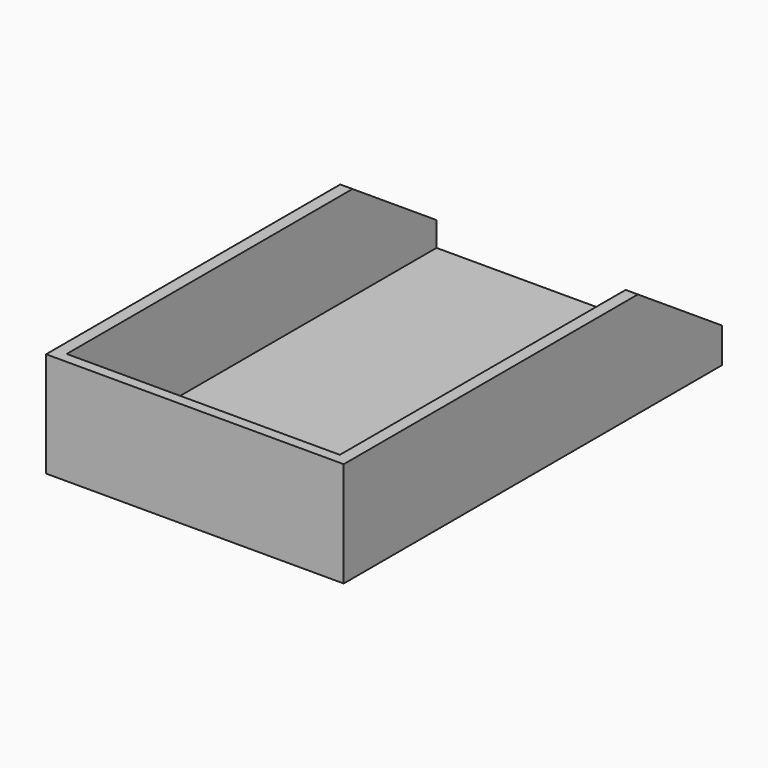
from build123d import *

# Parameters (mm, degrees)
PAD_DEPTH    = 42.5
SKETCH001_W  = 150
SKETCH001_H  = 50
POCKET_DEPTH = 39


with BuildPart() as part:
    # Sketch → Pad (new body, symmetric)
    with BuildSketch(Plane.YZ):
        Polygon((105, 30), (135, 10), (135, 0), (0, 0), (0, 30), align=None)
    extrude(amount=PAD_DEPTH, both=True)

    # Sketch001 → Pocket (cut, symmetric)
    with BuildSketch(Plane.YZ):
        with Locations((78, 28)):
            Rectangle(SKETCH001_W, SKETCH001_H)
    extrude(amount=POCKET_DEPTH, both=True, mode=Mode.SUBTRACT)


solid = part.part
